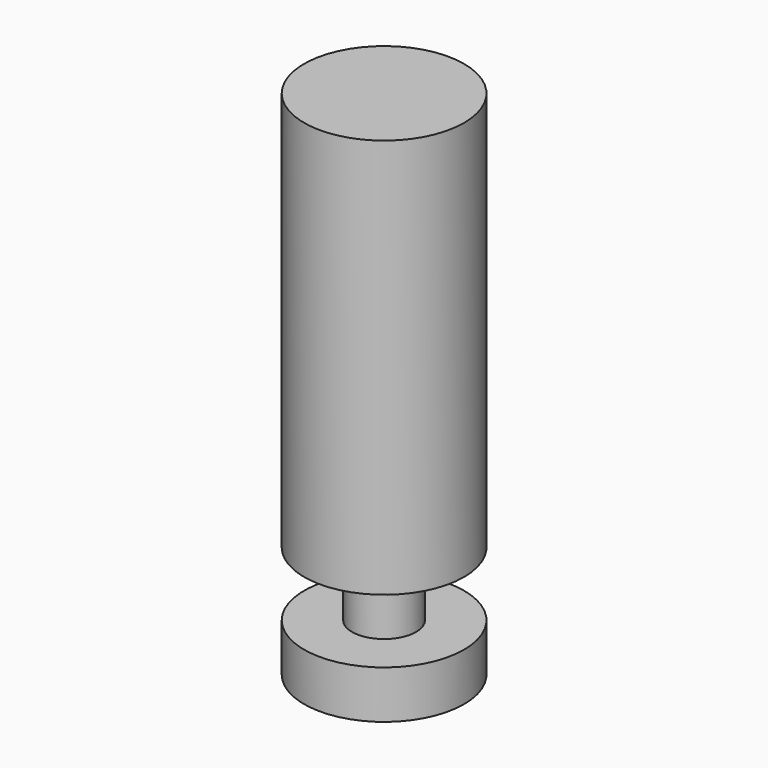
from build123d import *

# Parameters (mm, degrees)
F0_R     = 12.7
F1_DEPTH = 63.5
F2_R     = 5.08
F3_DEPTH = 10.16
F4_R     = 12.7
F4_R_2   = 5.08
F5_DEPTH = 7.62


with BuildPart() as f1:
    # F0 (on Top) → F1 (new body)
    with BuildSketch(Plane.XY):
        with Locations((-48.281897, 12.809483)):
            Circle(F0_R)
    extrude(amount=F1_DEPTH)

    # F2 (on face) → F3 (join)
    with BuildSketch(Plane(origin=(0, 0, 0), x_dir=(1, 0, 0), z_dir=(0, 0, -1))):
        with Locations((-48.281897, -12.809483)):
            Circle(F2_R)
    extrude(amount=F3_DEPTH)

    # F4 (on face) → F5 (join)
    with BuildSketch(Plane(origin=(0, 0, -10.16), x_dir=(1, 0, 0), z_dir=(0, 0, -1))):
        with Locations((-48.281897, -12.809483)):
            Circle(F4_R)
        with Locations((-48.281897, -12.809483)):
            Circle(F4_R_2, mode=Mode.SUBTRACT)
        with Locations((-48.281897, -12.809483)):
            Circle(F4_R_2)
    extrude(amount=F5_DEPTH)


solid = f1.part
